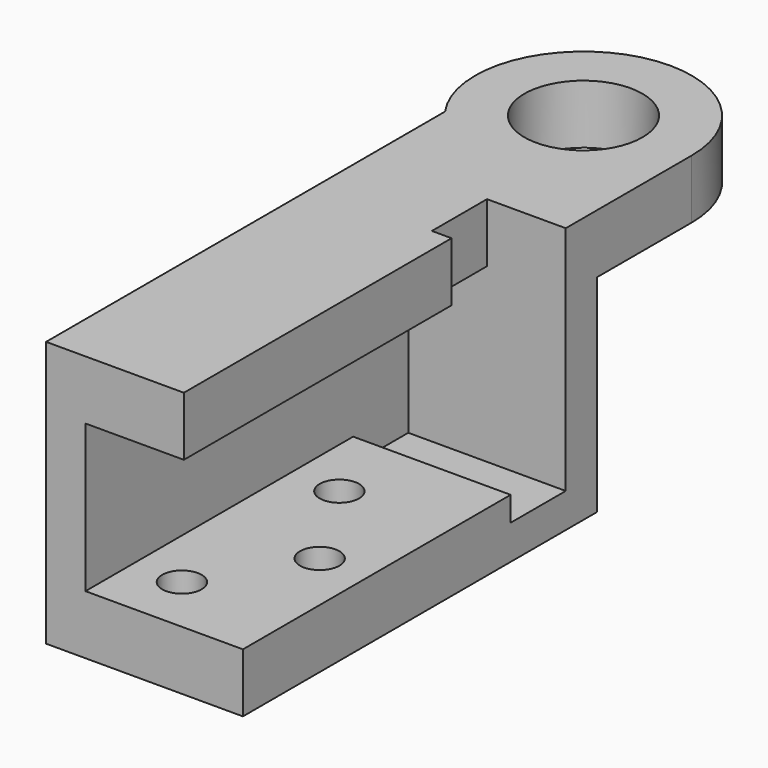
from build123d import *

# Parameters (mm, degrees)
SKETCH_W        = 20
SKETCH_H        = 45
PAD_DEPTH       = 6
PAD001_DEPTH    = 15
SKETCH002_R     = 6
PAD002_DEPTH    = 6
SKETCH003_R     = 2
POCKET_DEPTH    = 6
SKETCH004_W     = 7
SKETCH004_H     = 6
POCKET001_DEPTH = 2
SKETCH005_W     = 16
SKETCH005_H     = 7
POCKET002_DEPTH = 2.5


with BuildPart() as part:
    # Sketch → Pad (new body)
    with BuildSketch(Plane.XY):
        with Locations((10, 22.5)):
            Rectangle(SKETCH_W, SKETCH_H)
    extrude(amount=PAD_DEPTH)

    # Sketch001 (on Face6 of Pad) → Pad001 (join)
    with BuildSketch(Plane.XY.offset(6)):
        Polygon((0, 0), (0, 45), (20, 45), (20, 41), (4, 41), (4, 0), align=None)
    extrude(amount=PAD001_DEPTH)

    # Sketch002 (on Face11 of Pad001) → Pad002 (join)
    with BuildSketch(Plane.XY.offset(21)):
        with BuildLine():
            Line((14, 0), (14, 41))
            Line((14, 41), (20, 41))
            Line((20, 41), (20, 57))
            ThreePointArc((20, 57), (5.683375, 67.488088), (0, 50.675445))
            Line((0, 50.675445), (0, 0))
            Line((14, 0), (0, 0))
        make_face()
        with Locations((9, 57)):
            Circle(SKETCH002_R, mode=Mode.SUBTRACT)
    extrude(amount=PAD002_DEPTH)

    # Sketch003 (on Face4 of Pad002) → Pocket (cut)
    with BuildSketch(Plane(origin=(0, 0, 0), x_dir=(1, 0, 0), z_dir=(0, 0, -1))):
        with Locations((9, -6)):
            Circle(SKETCH003_R)
        with Locations((9, -26)):
            Circle(SKETCH003_R)
        with Locations((15, -16)):
            Circle(SKETCH003_R)
    extrude(amount=-POCKET_DEPTH, mode=Mode.SUBTRACT)

    # Sketch004 (on Face20 of Pocket) → Pocket001 (cut)
    with BuildSketch(Plane.YZ.offset(14)):
        with Locations((37.5, 24)):
            Rectangle(SKETCH004_W, SKETCH004_H)
    extrude(amount=-POCKET001_DEPTH, mode=Mode.SUBTRACT)

    # Sketch005 (on Face6 of Pocket001) → Pocket002 (cut)
    with BuildSketch(Plane.XY.offset(6)):
        with Locations((12, 37.5)):
            Rectangle(SKETCH005_W, SKETCH005_H)
    extrude(amount=-POCKET002_DEPTH, mode=Mode.SUBTRACT)


solid = part.part
